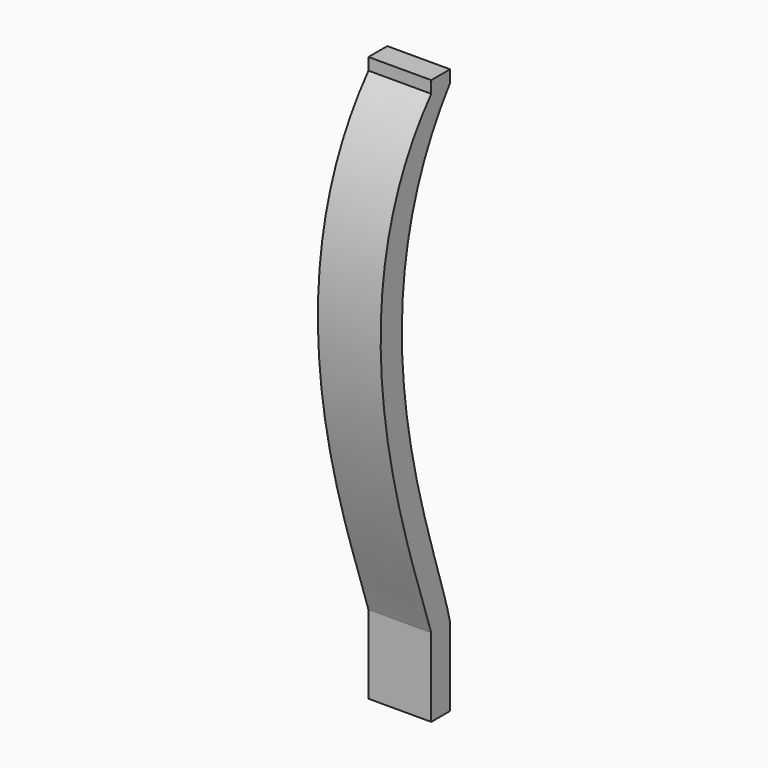
from build123d import *

# Parameters (mm, degrees)
F0_W     = 8
F0_H     = 30
F1_DEPTH = 57
F2_DEPTH = 15
F4_DEPTH = 8


with BuildPart() as f1:
    # F0 (on Top) → F1 (new body)
    with BuildSketch(Plane.XY):
        Rectangle(F0_W, F0_H)
    extrude(amount=F1_DEPTH)

    # F2 (add): a face of the model
    f2_faces = [f1.faces().sort_by_distance(p)[0] for p in [
        (0, 0, 0),
    ]]
    extrude(f2_faces, amount=F2_DEPTH)

    # F3 (on face) → F4 (cut, through all)
    with BuildSketch(Plane(origin=(-4, 0, 0), x_dir=(0, -1, 0), z_dir=(-1, 0, 0))):
        with BuildLine():
            Line((15, 57), (-12, 57))
            Line((-12, 57), (-12, 55.4652698338))
            add(Edge.make_bspline(
                [(-12, 55.4652698338), (4.7257277183, 36.0407754779), (-9.3587208539, 3.8601619937), (-12, -5)],
                knots=[0, 0, 0, 0, 60.4652698338, 60.4652698338, 60.4652698338, 60.4652698338], degree=3))
            Line((-12, -5), (-12, -15))
            Line((-12, -15), (15, -15))
            Line((15, -15), (15, 57))
        make_face()
        with BuildLine():
            add(Edge.make_bspline(
                [(-15, 55.4652698338), (1.0521842632, 33.6701404303), (-12.6800062135, 5.2046555839), (-15, -5)],
                knots=[0, 0, 0, 0, 60.4652698338, 60.4652698338, 60.4652698338, 60.4652698338], degree=3))
            Line((-15, 55.4652698338), (-15, -5))
        make_face()
        with BuildLine():
            Line((15, 57), (-12, 57))
            Line((-12, 57), (-12, 55.4652698338))
            add(Edge.make_bspline(
                [(-12, 55.4652698338), (4.7257277183, 36.0407754779), (-9.3587208539, 3.8601619937), (-12, -5)],
                knots=[0, 0, 0, 0, 60.4652698338, 60.4652698338, 60.4652698338, 60.4652698338], degree=3))
            Line((-12, -5), (-12, -15))
            Line((-12, -15), (15, -15))
            Line((15, -15), (15, 57))
        make_face()
    extrude(amount=-F4_DEPTH, mode=Mode.SUBTRACT)


solid = f1.part
